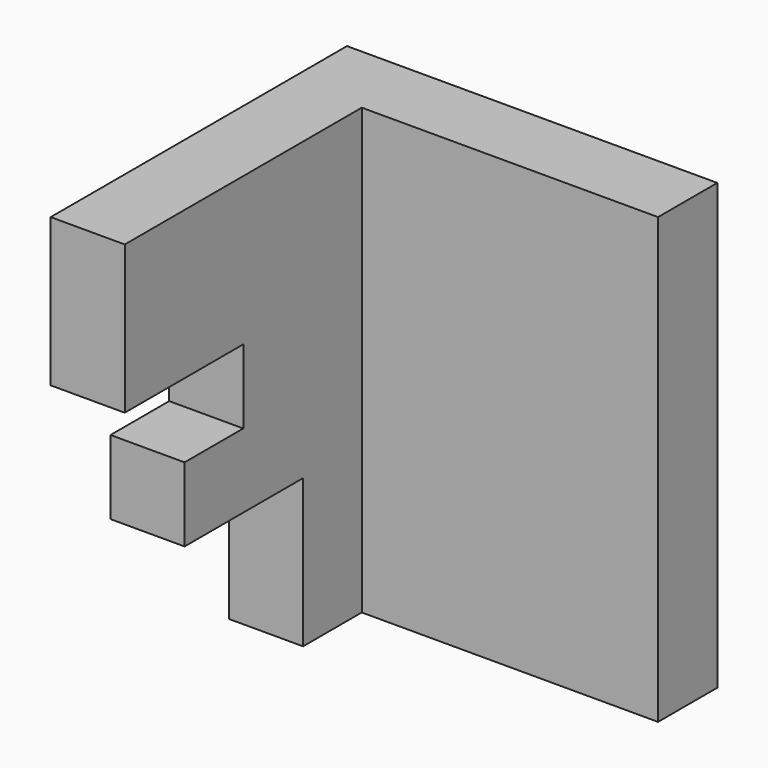
from build123d import *

# Parameters (mm, degrees)
F1_DEPTH = 76.2
F3_DEPTH = 12.7


with BuildPart() as f1:
    # F0 (on Top) → F1 (new body)
    with BuildSketch(Plane.XY):
        Polygon((-11.331179, 33.11147), (39.468821, 33.11147), (39.468821, 45.81147), (-24.031179, 45.81147), (-24.031179, -17.68853), (-11.331179, -17.68853), align=None)
    extrude(amount=F1_DEPTH)

    # F2 (on face) → F3 (cut)
    with BuildSketch(Plane.YZ.offset(-11.331179)):
        Polygon((-17.68853, 50.8), (-17.68853, 0), (20.528872, 0), (20.528872, 25.4), (-4.871128, 25.4), (-4.871128, 38.1), (7.71147, 38.1), (7.71147, 50.8), align=None)
    extrude(amount=-F3_DEPTH, mode=Mode.SUBTRACT)


solid = f1.part
